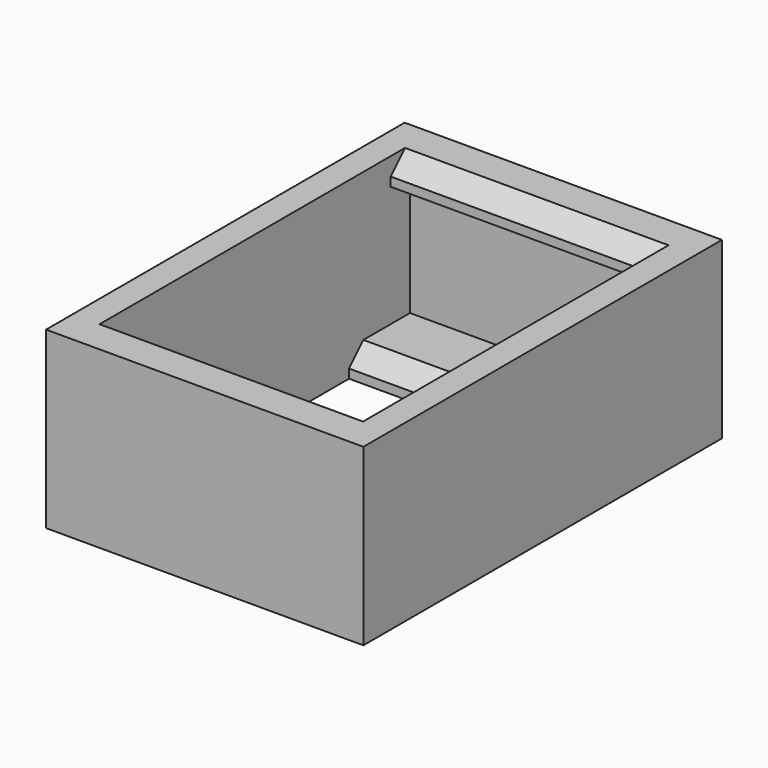
from build123d import *

# Parameters (mm, degrees)
SKETCH013_W   = 17.7
SKETCH013_H   = 25
SKETCH013_W_2 = 14.7
SKETCH013_H_2 = 22
PAD001_DEPTH  = 9.75
SKETCH014_W   = 1.35
SKETCH014_H   = 1.5
SKETCH014_W_2 = 4.25
PAD002_DEPTH  = 14.7
CHAMFER_SIZE  = 1


with BuildPart() as part:
    # Sketch013 → Pad001 (new body)
    with BuildSketch(Plane.XY):
        Rectangle(SKETCH013_W, SKETCH013_H)
        Rectangle(SKETCH013_W_2, SKETCH013_H_2, mode=Mode.SUBTRACT)
    extrude(amount=PAD001_DEPTH)

    # Sketch014 (on Face7 of Pad001) → Pad002 (join)
    with BuildSketch(Plane.YZ.offset(-7.35)):
        with Locations((-10.325, 0.75)):
            Rectangle(SKETCH014_W, SKETCH014_H)
        with Locations((-10.325, 9)):
            Rectangle(SKETCH014_W, SKETCH014_H)
        with Locations((10.325, 9)):
            Rectangle(SKETCH014_W, SKETCH014_H)
        with Locations((8.875, 0.75)):
            Rectangle(SKETCH014_W_2, SKETCH014_H)
    extrude(amount=PAD002_DEPTH)

    # Chamfer
    chamfer_edges = [part.edges().sort_by_distance(p)[0] for p in [
        (0, -9.65, 9.75),
        (0, 9.65, 9.75),
        (0, 6.75, 1.5),
    ]]
    chamfer(chamfer_edges, length=CHAMFER_SIZE)


solid = part.part
